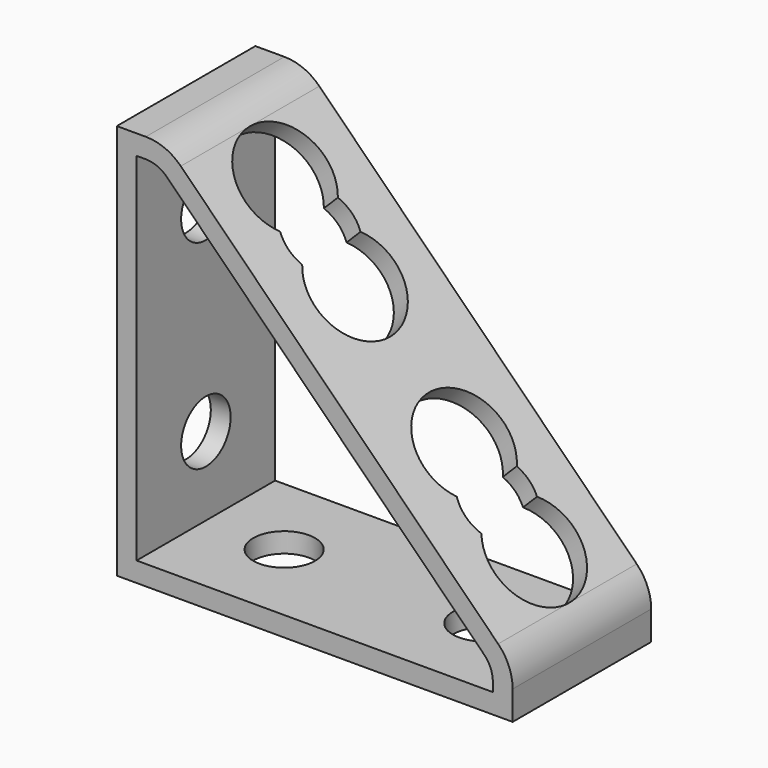
from build123d import *

# Parameters (mm, degrees)
F1_DEPTH  = 22.225
F2_T      = -2.54
F5_D      = 7.9375
F5_DEPTH  = 2.54
F6_D      = 7.9375
F6_DEPTH  = 2.54
F7_D      = 7.9375
F7_DEPTH  = 2.54
F9_D      = 12.7
F9_DEPTH  = 2.54
F10_D     = 10.16
F10_DEPTH = 2.54
F11_D     = 12.7
F11_DEPTH = 2.54
F12_D     = 12.7
F12_DEPTH = 2.54
F13_D     = 10.16
F13_DEPTH = 2.54
F14_D     = 12.7
F14_DEPTH = 2.54


with BuildPart() as f1:
    # F0 (on Front) → F1 (new body)
    with BuildSketch(Plane.XZ):
        with BuildLine():
            Line((0, 50.8), (0, 0))
            Line((0, 0), (50.8, 0))
            Line((50.8, 0), (50.8, 3.719744))
            ThreePointArc((50.8, 3.719744), (50.316635, 6.149784), (48.940128, 8.209872))
            Line((48.940128, 8.209872), (8.209872, 48.940128))
            ThreePointArc((8.209872, 48.940128), (6.149784, 50.316635), (3.719744, 50.8))
            Line((3.719744, 50.8), (0, 50.8))
        make_face()
    extrude(amount=F1_DEPTH)

    # F2
    f2_openings = [f1.faces().sort_by_distance(p)[0] for p in [
        (18.825328, -22.225, 18.825328),
        (18.825328, 0, 18.825328),
    ]]
    offset(amount=F2_T, openings=f2_openings)

    # F5
    with Locations(Plane(origin=(0, 0, 0), x_dir=(1, 0, 0), z_dir=(0, 0, -1))):
        with Locations((12.587238, 11.1125)):
            Hole(F5_D / 2, depth=F5_DEPTH)

    # F6
    with Locations(Plane(origin=(0, 0, 0), x_dir=(1, 0, 0), z_dir=(0, 0, -1))):
        with Locations((38.208447, 11.1125)):
            Hole(F6_D / 2, depth=F6_DEPTH)

    # F7
    with Locations(Plane(origin=(0, 0, 0), x_dir=(0, -1, 0), z_dir=(-1, 0, 0))):
        with Locations((11.1125, 38.189299), (11.1125, 12.604319)):
            Hole(F7_D / 2, depth=F7_DEPTH)

    # F9
    with Locations(Plane(origin=(28.575, 0, 28.575), x_dir=(0, 1, 0), z_dir=(0.707107, 0, 0.707107))):
        with Locations((-11.1125, 22.45064)):
            Hole(F9_D / 2, depth=F9_DEPTH)

    # F10
    with Locations(Plane(origin=(28.575, 0, 28.575), x_dir=(0, 1, 0), z_dir=(0.707107, 0, 0.707107))):
        with Locations((-11.07522, 16.09941)):
            Hole(F10_D / 2, depth=F10_DEPTH)

    # F11
    with Locations(Plane(origin=(28.575, 0, 28.575), x_dir=(0, 1, 0), z_dir=(0.707107, 0, 0.707107))):
        with Locations((-11.1125, 9.75064)):
            Hole(F11_D / 2, depth=F11_DEPTH)

    # F12
    with Locations(Plane(origin=(28.575, 0, 28.575), x_dir=(0, 1, 0), z_dir=(0.707107, 0, 0.707107))):
        with Locations((-10.860119, -9.75064)):
            Hole(F12_D / 2, depth=F12_DEPTH)

    # F13
    with Locations(Plane(origin=(28.575, 0, 28.575), x_dir=(0, 1, 0), z_dir=(0.707107, 0, 0.707107))):
        with Locations((-11.1125, -16.10064)):
            Hole(F13_D / 2, depth=F13_DEPTH)

    # F14
    with Locations(Plane(origin=(28.575, 0, 28.575), x_dir=(0, 1, 0), z_dir=(0.707107, 0, 0.707107))):
        with Locations((-10.823978, -22.45064)):
            Hole(F14_D / 2, depth=F14_DEPTH)


solid = f1.part
